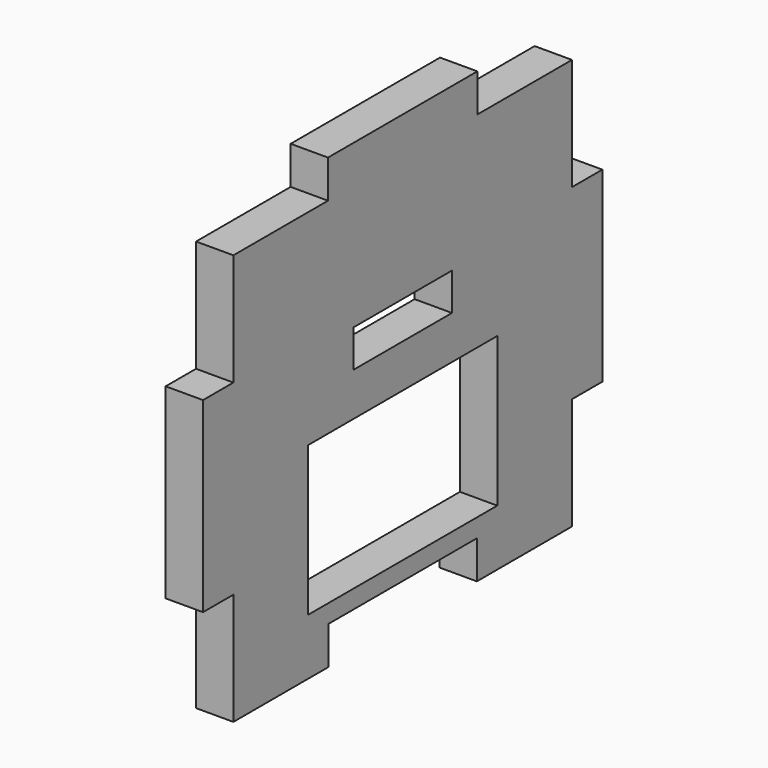
from build123d import *

# Parameters (mm, degrees)
F0_W     = 19
F0_H     = 12
F0_W_2   = 9.9
F0_H_2   = 3
F0_W_3   = 15
F0_H_3   = 3.05
F0_W_4   = 3.05
F0_H_4   = 15
F1_DEPTH = 3


with BuildPart() as f1:
    # F0 (on Right) → F1 (new body)
    with BuildSketch(Plane.YZ):
        Polygon((17, 7.5), (17, 16.5), (7.5, 16.5), (-7.5, 16.5), (-17, 16.5), (-17, 7.5), (-17, -7.5), (-17, -16.5), (-7.45, -16.5), (-7.45, -13.45), (7.45, -13.45), (7.45, -16.5), (17, -16.5), (17, -7.5), align=None)
        with Locations((0, -5.975)):
            Rectangle(F0_W, F0_H, mode=Mode.SUBTRACT)
        with Locations((0, 5)):
            Rectangle(F0_W_2, F0_H_2, mode=Mode.SUBTRACT)
        with Locations((0, 18.025)):
            Rectangle(F0_W_3, F0_H_3)
        with Locations((-18.525, 0)):
            Rectangle(F0_W_4, F0_H_4)
        with Locations((18.525, 0)):
            Rectangle(F0_W_4, F0_H_4)
    extrude(amount=F1_DEPTH)


solid = f1.part
